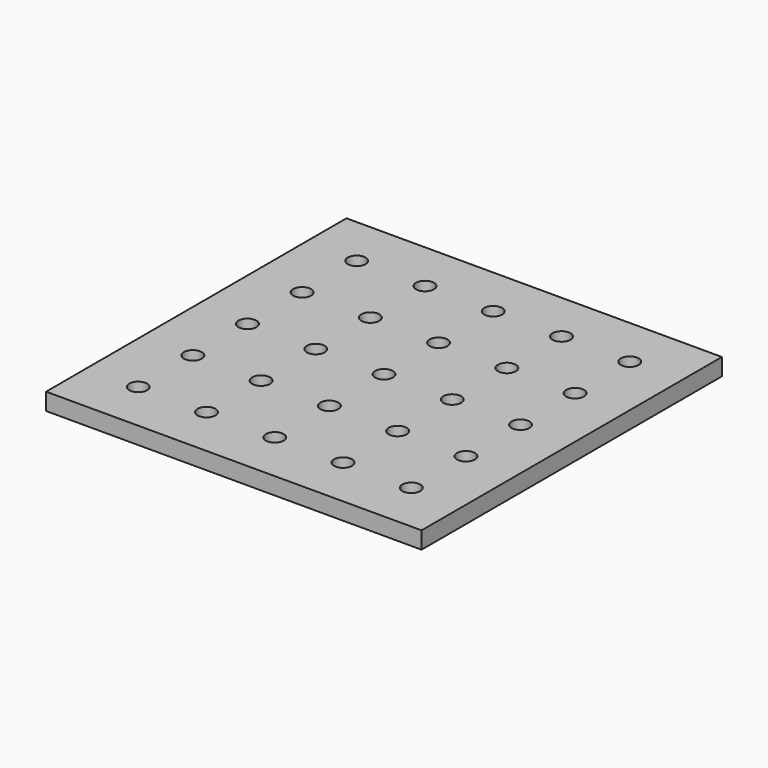
from build123d import *

# Parameters (mm, degrees)
SKETCH_W     = 110
SKETCH_H     = 110
PAD_DEPTH    = 5
SKETCH001_R  = 2.625
POCKET_DEPTH = 5


with BuildPart() as part:
    # Sketch → Pad (new body)
    with BuildSketch(Plane.XY):
        Rectangle(SKETCH_W, SKETCH_H)
    extrude(amount=PAD_DEPTH)

    # Sketch001 (on Face6 of Pad) → Pocket (cut)
    with BuildSketch(Plane.XY.offset(5)):
        Circle(SKETCH001_R)
        with Locations((20, 0)):
            Circle(SKETCH001_R)
        with Locations((40, 0)):
            Circle(SKETCH001_R)
        with Locations((-20, 0)):
            Circle(SKETCH001_R)
        with Locations((-40, 0)):
            Circle(SKETCH001_R)
        with Locations((-40, 20)):
            Circle(SKETCH001_R)
        with Locations((-40, 40)):
            Circle(SKETCH001_R)
        with Locations((-20, 20)):
            Circle(SKETCH001_R)
        with Locations((-20, 40)):
            Circle(SKETCH001_R)
        with Locations((0, 20)):
            Circle(SKETCH001_R)
        with Locations((0, 40)):
            Circle(SKETCH001_R)
        with Locations((20, 20)):
            Circle(SKETCH001_R)
        with Locations((20, 40)):
            Circle(SKETCH001_R)
        with Locations((40, 20)):
            Circle(SKETCH001_R)
        with Locations((40, 40)):
            Circle(SKETCH001_R)
        with Locations((0, -20)):
            Circle(SKETCH001_R)
        with Locations((0, -40)):
            Circle(SKETCH001_R)
        with Locations((20, -20)):
            Circle(SKETCH001_R)
        with Locations((20, -40)):
            Circle(SKETCH001_R)
        with Locations((40, -20)):
            Circle(SKETCH001_R)
        with Locations((40, -40)):
            Circle(SKETCH001_R)
        with Locations((-20, -40)):
            Circle(SKETCH001_R)
        with Locations((-20, -20)):
            Circle(SKETCH001_R)
        with Locations((-40, -20)):
            Circle(SKETCH001_R)
        with Locations((-40, -40)):
            Circle(SKETCH001_R)
    extrude(amount=-POCKET_DEPTH, mode=Mode.SUBTRACT)


solid = part.part
